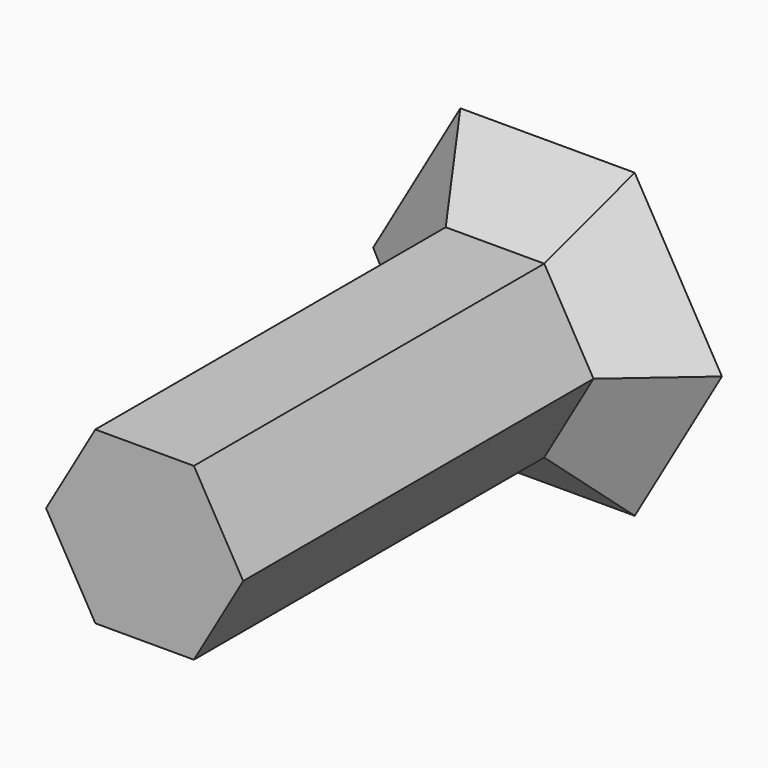
from build123d import *

# Parameters (mm, degrees)
F1_DEPTH = 100
F2_DEPTH = 15
F2_TAPER = -45


with BuildPart() as f1:
    # F0 (on Front) → F1 (new body)
    with BuildSketch(Plane.XZ):
        Polygon((-11.2495551893, -19.4848011505), (11.2495551893, -19.4848011505), (22.4991103787, 0), (11.2495551893, 19.4848011505), (-11.2495551893, 19.4848011505), (-22.4991103787, 0), align=None)
    extrude(amount=F1_DEPTH)

    # F1_face (on face) → F2 (join)
    with BuildSketch(Plane(origin=(0, 0, 0), x_dir=(1, 0, 0), z_dir=(0, 1, 0))):
        Polygon((-11.2495551893, 19.4848011505), (-22.4991103787, 0), (-11.2495551893, -19.4848011505), (11.2495551893, -19.4848011505), (22.4991103787, 0), (11.2495551893, 19.4848011505), align=None)
    extrude(amount=F2_DEPTH, taper=F2_TAPER)


solid = f1.part
